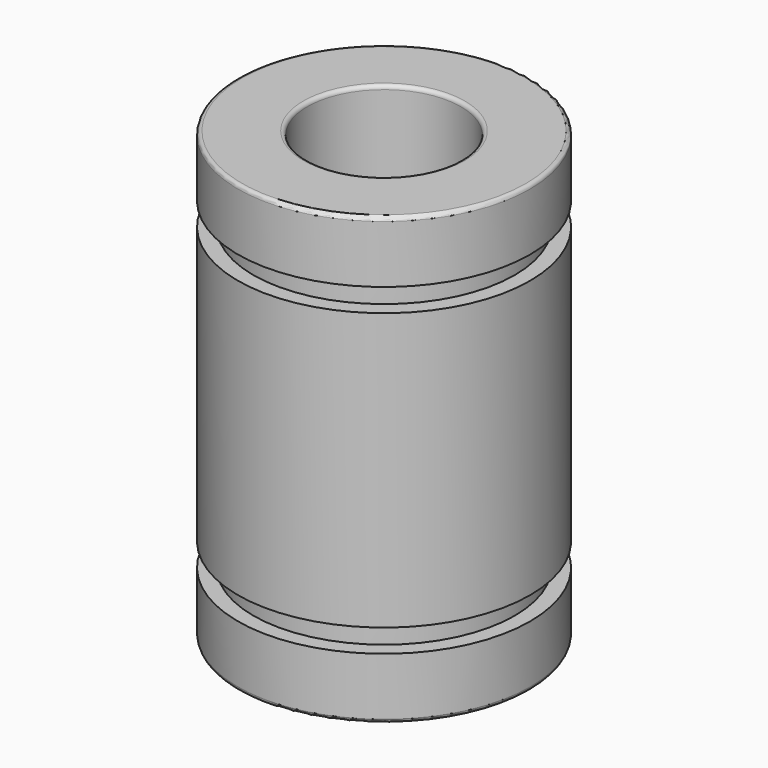
from build123d import *

# Parameters (mm, degrees)
F0_R     = 9.5
F0_R_2   = 5
F1_DEPTH = 29
F2_R     = 0.25
F3_W     = 3
F3_H     = 1.5


with BuildPart() as f1:
    # F0 (on Top) → F1 (new body)
    with BuildSketch(Plane.XY):
        Circle(F0_R)
        Circle(F0_R_2, mode=Mode.SUBTRACT)
    extrude(amount=F1_DEPTH)

    # F2
    f2_edges = [f1.edges().sort_by_distance(p)[0] for p in [
        (-9.5, 0, 29),
        (-5, 0, 29),
        (-9.5, 0, 0),
        (-5, 0, 0),
    ]]
    fillet(f2_edges, radius=F2_R)

    # F3 (on Front) → F4 (revolve, cut)
    with BuildSketch(Plane.XZ):
        with Locations((10, 24.25)):
            Rectangle(F3_W, F3_H)
        with Locations((10, 4.75)):
            Rectangle(F3_W, F3_H)
    revolve(axis=Axis((0, 0, 23.490791), (0, 0, 1)), mode=Mode.SUBTRACT)


solid = f1.part
